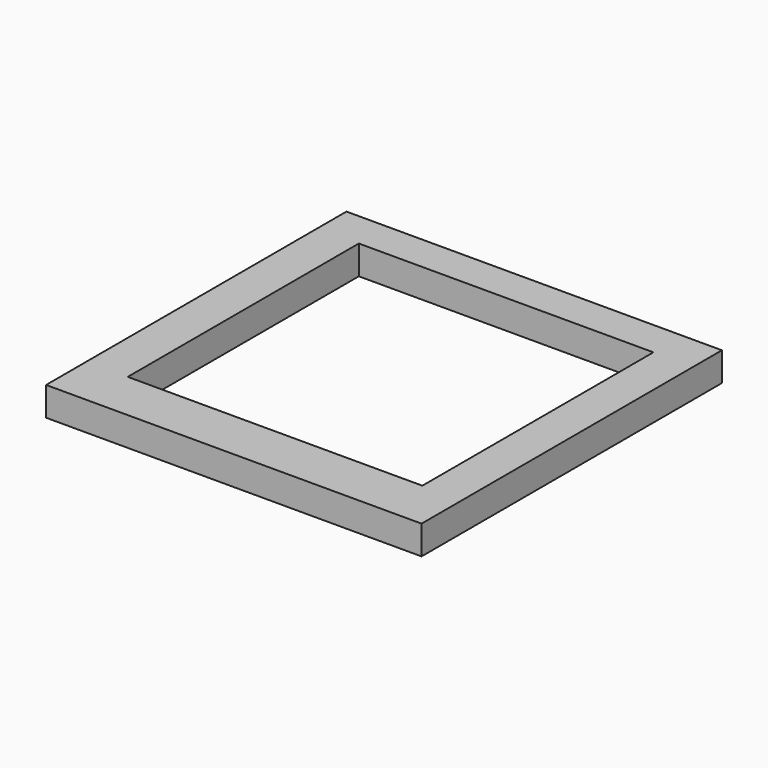
from build123d import *

# Parameters (mm, degrees)
F0_W     = 82.55
F0_H     = 82.55
F2_DEPTH = 6.35
F1_W     = 64.77
F1_H     = 63.5
F3_DEPTH = 24.638


with BuildPart() as f2:
    # F0 (on Top) → F2 (new body)
    with BuildSketch(Plane.XY):
        with Locations((-15.57321, 2.882991)):
            Rectangle(F0_W, F0_H)
    extrude(amount=F2_DEPTH)

    # F1 (on face) → F3 (cut)
    with BuildSketch(Plane.XY):
        with Locations((-15.388364, 4.460809)):
            Rectangle(F1_W, F1_H)
    extrude(amount=F3_DEPTH, mode=Mode.SUBTRACT)


solid = f2.part
